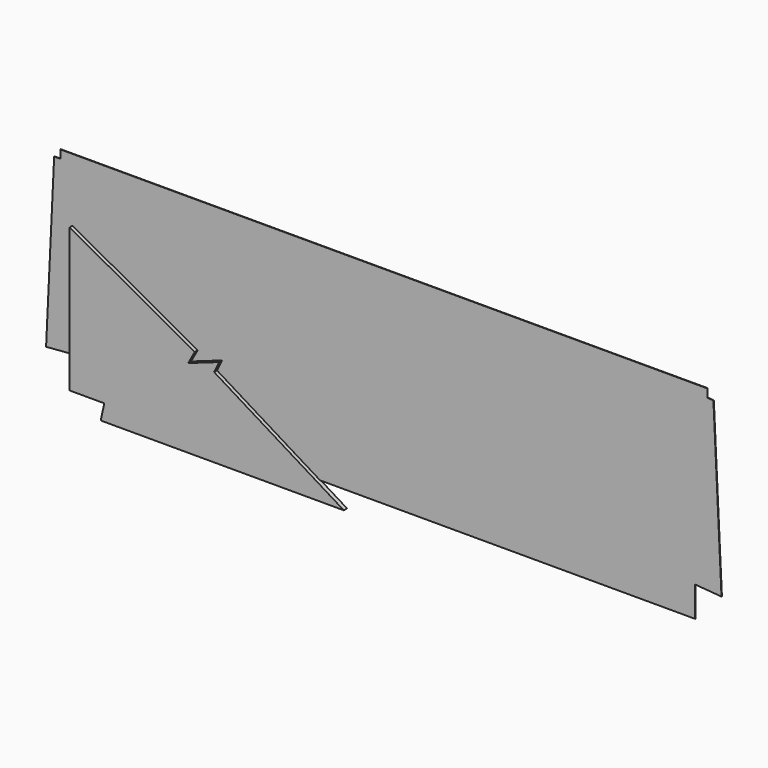
from build123d import *

# Parameters (mm, degrees)
F1_DEPTH = 3.175
F3_DEPTH = 25.4


with BuildPart() as f1:
    # F0 (on Front) → F1 (new body)
    with BuildSketch(Plane.XZ):
        Polygon((0, 190.5), (0, 0), (3879.85, 0), (3879.85, 188.75788), (4044.414025, 175.465338), (3993.999283, 1234.864452), (3956.05, 1238.25), (3956.05, 1289.05), (-76.2, 1289.05), (-76.2, 1238.25), (-114.262982, 1236.570891), (-164.564109, 177.208493), align=None)
    extrude(amount=F1_DEPTH)


with BuildPart() as f3:
    # F2 (on Front) → F3 (new body)
    with BuildSketch(Plane.XZ):
        Polygon((0, 895.194471), (0, 0), (215.9, 0), (193.675, -101.6), (1708.880305, -101.6), (900.201321, 394.262642), (932.744443, 459.348917), (738.879598, 390.864678), (780.042052, 465.607226), align=None)
    extrude(amount=F3_DEPTH)


solid = Compound([f1.part, f3.part])
